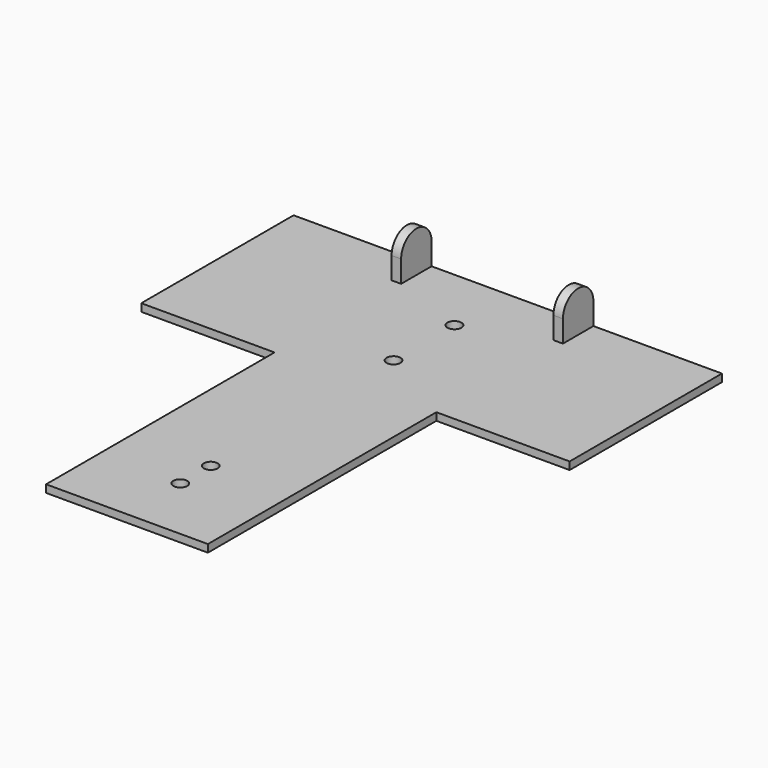
from build123d import *

# Parameters (mm, degrees)
F2_DEPTH = 1.2
F5_DEPTH = 1.5
F7_R     = 1.1
F8_DEPTH = 1.201


with BuildPart() as f2:
    # F1 (on Top) → F2 (new body)
    with BuildSketch(Plane.XY):
        Polygon((-12.75, 17.5), (-12.75, -27.5), (12.75, -27.5), (12.75, 17.5), (33.75, 17.5), (33.75, 47.5), (-33.75, 47.5), (-33.75, 17.5), align=None)
    extrude(amount=F2_DEPTH)

    # F4 (on offset) → F5 (join)
    with BuildSketch(Plane.YZ.offset(12)):
        with BuildLine():
            Line((41.5, 4.65), (41.5, 1.2))
            Line((41.5, 1.2), (47.5, 1.2))
            Line((47.5, 1.2), (47.5, 4.65))
            ThreePointArc((47.5, 4.65), (44.5, 7.65), (41.5, 4.65))
        make_face()
    extrude(amount=F5_DEPTH)

    # F6: F2 across plane


with BuildPart() as f2_1:
    add(f2.part)
    add(f2.part.mirror(Plane.YZ))

    # F7 (on face) → F8 (cut, through all)
    with BuildSketch(Plane.XY.offset(1.2)):
        with Locations((0, 37)):
            Circle(F7_R)
        with Locations((0, 25)):
            Circle(F7_R)
        with Locations((0, -11)):
            Circle(F7_R)
        with Locations((0, -17)):
            Circle(F7_R)
    extrude(amount=-F8_DEPTH, mode=Mode.SUBTRACT)


solid = f2_1.part
